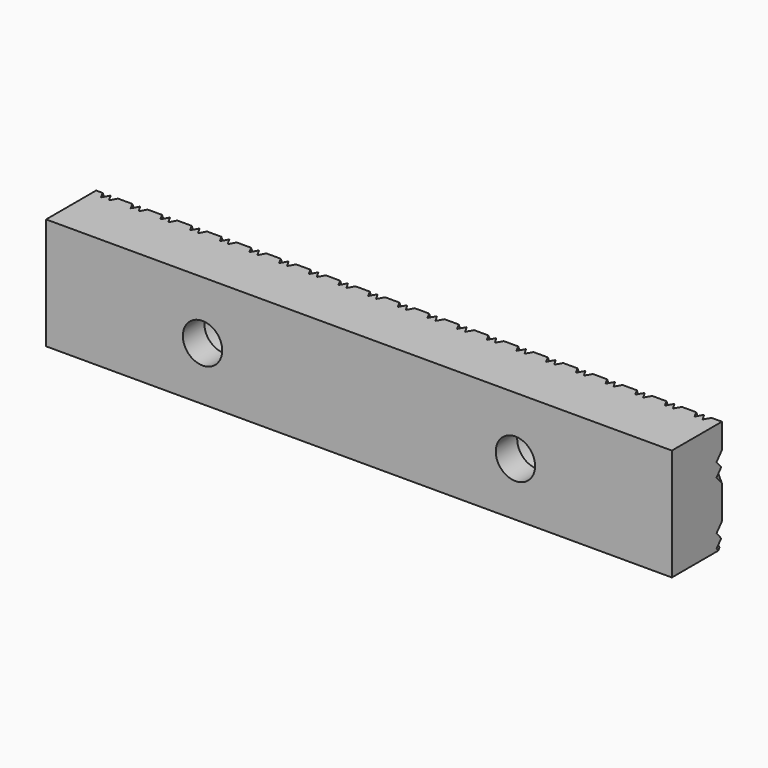
from build123d import *

# Parameters (mm, degrees)
F1_DEPTH       = 14
F2_D           = 8.8
F2_CBORE_D     = 14.25
F2_CBORE_DEPTH = 8
F6_DEPTH       = 150
F10_DEPTH      = 150


with BuildPart() as f1:
    # F0 (on Front) → F1 (new body)
    with BuildSketch(Plane.XZ):
        Polygon((69.2557910085, 11.1517636105), (-70.7442089915, 11.1517636105), (-70.7442089915, -13.8482363895), (-35.7442089915, -13.8482363895), (69.2557910085, -13.8482363895), align=None)
    extrude(amount=F1_DEPTH)

    # F2 (through all)
    with Locations(Plane(origin=(0, 0, 0), x_dir=(1, 0, 0), z_dir=(0, 1, 0))):
        with Locations((-35.7442089915, 1.8482363895), (34.2557910085, 1.8482363895)):
            CounterBoreHole(F2_D / 2, F2_CBORE_D / 2, F2_CBORE_DEPTH)

    # F5 (on face) → F6 (cut, symmetric)
    with BuildSketch(Plane(origin=(17.0060421925, 0, 35.9016446286), x_dir=(0.9037378389, 0, -0.4280863447), z_dir=(0.4280863447, 0, 0.9037378389))):
        Polygon((67.7143826485, 0), (66.2143826485, 0), (66.9643826485, -1.5), align=None)
        Polygon((61.7143826485, 0), (60.2143826485, 0), (60.9643826485, -1.5), align=None)
        Polygon((55.7143826485, 0), (54.2143826485, 0), (54.9643826485, -1.5), align=None)
        Polygon((49.7143826485, 0), (48.2143826485, 0), (48.9643826485, -1.5), align=None)
        Polygon((43.7143826485, 0), (42.2143826485, 0), (42.9643826485, -1.5), align=None)
        Polygon((37.7143826485, 0), (36.2143826485, 0), (36.9643826485, -1.5), align=None)
        Polygon((31.7143826485, 0), (30.2143826485, 0), (30.9643826485, -1.5), align=None)
        Polygon((25.7143826485, 0), (24.2143826485, 0), (24.9643826485, -1.5), align=None)
        Polygon((19.7143826485, 0), (18.2143826485, 0), (18.9643826485, -1.5), align=None)
        Polygon((13.7143826485, 0), (12.2143826485, 0), (12.9643826485, -1.5), align=None)
        Polygon((7.7143826485, 0), (6.2143826485, 0), (6.9643826485, -1.5), align=None)
        Polygon((1.7143826485, 0), (0.2143826485, 0), (0.9643826485, -1.5), align=None)
        Polygon((-107.0356173515, -1.5), (-106.2856173515, 0), (-107.7856173515, 0), align=None)
        Polygon((-101.0356173515, -1.5), (-100.2856173515, 0), (-101.7856173515, 0), align=None)
        Polygon((-95.0356173515, -1.5), (-94.2856173515, 0), (-95.7856173515, 0), align=None)
        Polygon((-89.0356173515, -1.5), (-88.2856173515, 0), (-89.7856173515, 0), align=None)
        Polygon((-83.0356173515, -1.5), (-82.2856173515, 0), (-83.7856173515, 0), align=None)
        Polygon((-77.0356173515, -1.5), (-76.2856173515, 0), (-77.7856173515, 0), align=None)
        Polygon((-71.0356173515, -1.5), (-70.2856173515, 0), (-71.7856173515, 0), align=None)
        Polygon((-65.0356173515, -1.5), (-64.2856173515, 0), (-65.7856173515, 0), align=None)
        Polygon((-59.0356173515, -1.5), (-58.2856173515, 0), (-59.7856173515, 0), align=None)
        Polygon((-53.0356173515, -1.5), (-52.2856173515, 0), (-53.7856173515, 0), align=None)
        Polygon((-47.0356173515, -1.5), (-46.2856173515, 0), (-47.7856173515, 0), align=None)
        Polygon((-41.0356173515, -1.5), (-40.2856173515, 0), (-41.7856173515, 0), align=None)
        Polygon((-35.0356173515, -1.5), (-34.2856173515, 0), (-35.7856173515, 0), align=None)
        Polygon((-29.0356173515, -1.5), (-28.2856173515, 0), (-29.7856173515, 0), align=None)
        Polygon((-23.0356173515, -1.5), (-22.2856173515, 0), (-23.7856173515, 0), align=None)
        Polygon((-17.0356173515, -1.5), (-16.2856173515, 0), (-17.7856173515, 0), align=None)
        Polygon((-11.0356173515, -1.5), (-10.2856173515, 0), (-11.7856173515, 0), align=None)
        Polygon((-5.0356173515, -1.5), (-4.2856173515, 0), (-5.7856173515, 0), align=None)
    extrude(amount=F6_DEPTH, both=True, mode=Mode.SUBTRACT)

    # F9 (on face) → F10 (cut, symmetric)
    with BuildSketch(Plane(origin=(-17.278806574, 0, 36.4774805452), x_dir=(0.9037378389, 0, 0.4280863447), z_dir=(-0.4280863447, 0, 0.9037378389))):
        Polygon((-69.091876626, -1.5), (-68.341876626, 0), (-69.841876626, 0), align=None)
        Polygon((-63.091876626, -1.5), (-62.341876626, 0), (-63.841876626, 0), align=None)
        Polygon((-57.091876626, -1.5), (-56.341876626, 0), (-57.841876626, 0), align=None)
        Polygon((-51.091876626, -1.5), (-50.341876626, 0), (-51.841876626, 0), align=None)
        Polygon((-45.091876626, -1.5), (-44.341876626, 0), (-45.841876626, 0), align=None)
        Polygon((-39.091876626, -1.5), (-38.341876626, 0), (-39.841876626, 0), align=None)
        Polygon((-33.091876626, -1.5), (-32.341876626, 0), (-33.841876626, 0), align=None)
        Polygon((-27.091876626, -1.5), (-26.341876626, 0), (-27.841876626, 0), align=None)
        Polygon((-21.091876626, -1.5), (-20.341876626, 0), (-21.841876626, 0), align=None)
        Polygon((-15.091876626, -1.5), (-14.341876626, 0), (-15.841876626, 0), align=None)
        Polygon((-9.091876626, -1.5), (-8.341876626, 0), (-9.841876626, 0), align=None)
        Polygon((-3.091876626, -1.5), (-2.341876626, 0), (-3.841876626, 0), align=None)
        Polygon((93.658123374, 0), (92.158123374, 0), (92.908123374, -1.5), align=None)
        Polygon((87.658123374, 0), (86.158123374, 0), (86.908123374, -1.5), align=None)
        Polygon((81.658123374, 0), (80.158123374, 0), (80.908123374, -1.5), align=None)
        Polygon((75.658123374, 0), (74.158123374, 0), (74.908123374, -1.5), align=None)
        Polygon((69.658123374, 0), (68.158123374, 0), (68.908123374, -1.5), align=None)
        Polygon((63.658123374, 0), (62.158123374, 0), (62.908123374, -1.5), align=None)
        Polygon((57.658123374, 0), (56.158123374, 0), (56.908123374, -1.5), align=None)
        Polygon((51.658123374, 0), (50.158123374, 0), (50.908123374, -1.5), align=None)
        Polygon((45.658123374, 0), (44.158123374, 0), (44.908123374, -1.5), align=None)
        Polygon((39.658123374, 0), (38.158123374, 0), (38.908123374, -1.5), align=None)
        Polygon((33.658123374, 0), (32.158123374, 0), (32.908123374, -1.5), align=None)
        Polygon((27.658123374, 0), (26.158123374, 0), (26.908123374, -1.5), align=None)
        Polygon((21.658123374, 0), (20.158123374, 0), (20.908123374, -1.5), align=None)
        Polygon((15.658123374, 0), (14.158123374, 0), (14.908123374, -1.5), align=None)
        Polygon((9.658123374, 0), (8.158123374, 0), (8.908123374, -1.5), align=None)
        Polygon((3.658123374, 0), (2.158123374, 0), (2.908123374, -1.5), align=None)
        Polygon((98.158123374, 0), (98.908123374, -1.5), (99.658123374, 0), align=None)
        Polygon((104.158123374, 0), (104.908123374, -1.5), (105.658123374, 0), align=None)
    extrude(amount=F10_DEPTH, both=True, mode=Mode.SUBTRACT)


solid = f1.part
